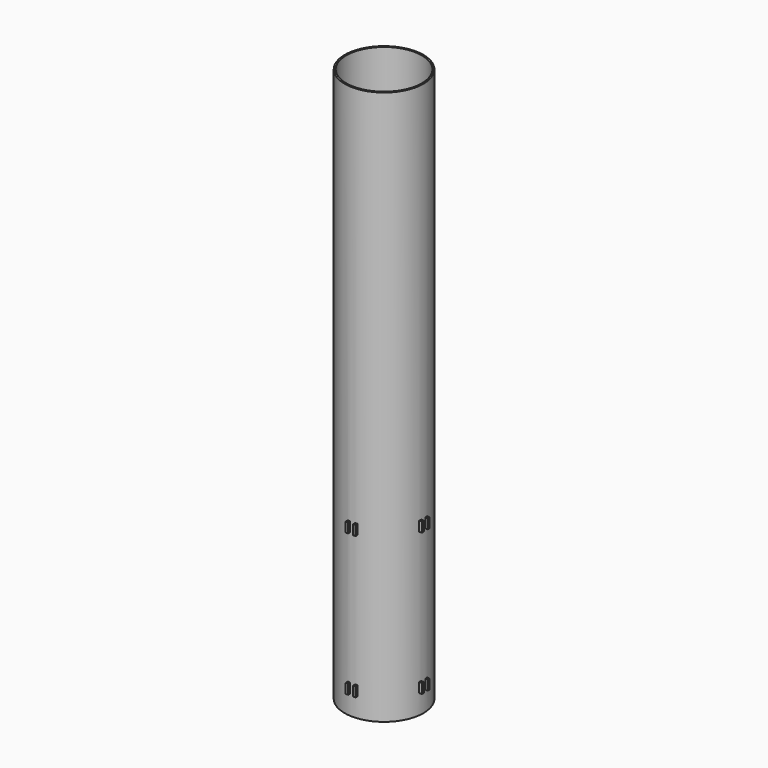
from build123d import *

# Parameters (mm, degrees)
F0_R       = 51
F0_R_2     = 49
F1_DEPTH   = 718.34502
F5_DEPTH   = 3.175
F7_W       = 3.175
F7_H       = 12.7
F8_DEPTH   = 3.175
F10_W      = 3.175
F10_H      = 12.7
F11_DEPTH  = 3.175
F13_W      = 3.175
F13_H      = 12.7
F14_DEPTH  = 3.175
F15_DEPTH  = 2.54
F8_FACE_W  = 3.175
F8_FACE_H  = 12.7
F16_DEPTH  = 2.54
F11_FACE_W = 3.175
F11_FACE_H = 12.7
F17_DEPTH  = 2.54
F14_FACE_W = 3.175
F14_FACE_H = 12.7
F18_DEPTH  = 2.54


with BuildPart() as f1:
    # F0 (on Top) → F1 (new body)
    with BuildSketch(Plane.XY):
        Circle(F0_R)
        Circle(F0_R_2, mode=Mode.SUBTRACT)
    extrude(amount=F1_DEPTH)



with BuildPart() as f5:
    # F4 (on line) → F5 (new body)
    with BuildSketch(Plane.XZ.offset(51)):
        Polygon((-3.175, 209.55), (-3.175, 222.25), (-6.3499914317, 222.2573762128), (-6.3499914317, 209.5573762128), align=None)
    extrude(amount=F5_DEPTH)


with BuildPart() as f5b:
    # F4 (on line) → F5, piece 2 (new body)
    with BuildSketch(Plane.XZ.offset(51)):
        Polygon((6.3499914317, 222.2573762128), (3.175, 222.25), (3.175, 209.55), (6.3499914317, 209.5573762128), align=None)
    extrude(amount=F5_DEPTH)


with BuildPart() as f5c:
    # F4 (on line) → F5, piece 3 (new body)
    with BuildSketch(Plane.XZ.offset(51)):
        Polygon((3.175, 38.1), (3.175, 25.4), (6.3499914317, 25.3926237872), (6.3499914317, 38.0926237872), align=None)
    extrude(amount=F5_DEPTH)


with BuildPart() as f5d:
    # F4 (on line) → F5, piece 4 (new body)
    with BuildSketch(Plane.XZ.offset(51)):
        Polygon((-6.3499914317, 25.3926237872), (-3.175, 25.4), (-3.175, 38.1), (-6.3499914317, 38.0926237872), align=None)
    extrude(amount=F5_DEPTH)


with BuildPart() as f8:
    # F7 (on line) → F8 (new body)
    with BuildSketch(Plane.YZ.offset(51)):
        with Locations((-4.7625, 215.9)):
            Rectangle(F7_W, F7_H)
    extrude(amount=F8_DEPTH)


with BuildPart() as f8b:
    # F7 (on line) → F8, piece 2 (new body)
    with BuildSketch(Plane.YZ.offset(51)):
        with Locations((4.7625, 215.9)):
            Rectangle(F7_W, F7_H)
    extrude(amount=F8_DEPTH)


with BuildPart() as f8c:
    # F7 (on line) → F8, piece 3 (new body)
    with BuildSketch(Plane.YZ.offset(51)):
        with Locations((4.7625, 31.75)):
            Rectangle(F7_W, F7_H)
    extrude(amount=F8_DEPTH)


with BuildPart() as f8d:
    # F7 (on line) → F8, piece 4 (new body)
    with BuildSketch(Plane.YZ.offset(51)):
        with Locations((-4.7625, 31.75)):
            Rectangle(F7_W, F7_H)
    extrude(amount=F8_DEPTH)


with BuildPart() as f11:
    # F10 (on line) → F11 (new body)
    with BuildSketch(Plane.XZ.offset(-51)):
        with Locations((-4.7625, 215.9)):
            Rectangle(F10_W, F10_H)
    extrude(amount=-F11_DEPTH)


with BuildPart() as f11b:
    # F10 (on line) → F11, piece 2 (new body)
    with BuildSketch(Plane.XZ.offset(-51)):
        with Locations((4.7625, 215.9)):
            Rectangle(F10_W, F10_H)
    extrude(amount=-F11_DEPTH)


with BuildPart() as f11c:
    # F10 (on line) → F11, piece 3 (new body)
    with BuildSketch(Plane.XZ.offset(-51)):
        with Locations((-4.7625, 31.75)):
            Rectangle(F10_W, F10_H)
    extrude(amount=-F11_DEPTH)


with BuildPart() as f11d:
    # F10 (on line) → F11, piece 4 (new body)
    with BuildSketch(Plane.XZ.offset(-51)):
        with Locations((4.7625, 31.75)):
            Rectangle(F10_W, F10_H)
    extrude(amount=-F11_DEPTH)


with BuildPart() as f14:
    # F13 (on line) → F14 (new body)
    with BuildSketch(Plane.YZ.offset(-51)):
        with Locations((-4.7625, 215.9)):
            Rectangle(F13_W, F13_H)
    extrude(amount=-F14_DEPTH)


with BuildPart() as f14b:
    # F13 (on line) → F14, piece 2 (new body)
    with BuildSketch(Plane.YZ.offset(-51)):
        with Locations((4.7625, 215.9)):
            Rectangle(F13_W, F13_H)
    extrude(amount=-F14_DEPTH)


with BuildPart() as f14c:
    # F13 (on line) → F14, piece 3 (new body)
    with BuildSketch(Plane.YZ.offset(-51)):
        with Locations((-4.7625, 31.75)):
            Rectangle(F13_W, F13_H)
    extrude(amount=-F14_DEPTH)


with BuildPart() as f14d:
    # F13 (on line) → F14, piece 4 (new body)
    with BuildSketch(Plane.YZ.offset(-51)):
        with Locations((4.7625, 31.75)):
            Rectangle(F13_W, F13_H)
    extrude(amount=-F14_DEPTH)


with BuildPart() as f1_1:
    add(f1.part)

    add(f5.part)  # F15 merges F5

    add(f5b.part)  # F15 merges F5b

    add(f5c.part)  # F15 merges F5c

    add(f5d.part)  # F15 merges F5d
    # F5_face (on face) → F15 (join)
    with BuildSketch(Plane(origin=(4.7624957159, -51, 31.7463118936), x_dir=(1, 0, 0), z_dir=(0, 1, 0))):
        Polygon((-1.5874957159, -6.3536881064), (1.5874957159, -6.3463118936), (1.5874957159, 6.3536881064), (-1.5874957159, 6.3463118936), align=None)
        Polygon((-11.1124871476, 6.3536881064), (-11.1124871476, -6.3463118936), (-7.9374957159, -6.3536881064), (-7.9374957159, 6.3463118936), align=None)
        Polygon((-1.5874957159, -190.5036881064), (1.5874957159, -190.5110643193), (1.5874957159, -177.8110643193), (-1.5874957159, -177.8036881064), align=None)
        Polygon((-7.9374957159, -190.5036881064), (-7.9374957159, -177.8036881064), (-11.1124871476, -177.8110643193), (-11.1124871476, -190.5110643193), align=None)
    extrude(amount=F15_DEPTH)


    add(f8.part)  # F16 merges F8

    add(f8b.part)  # F16 merges F8b

    add(f8c.part)  # F16 merges F8c

    add(f8d.part)  # F16 merges F8d
    # F8_face (on face) → F16 (join)
    with BuildSketch(Plane(origin=(51, 4.7625, 215.9), x_dir=(0, 1, 0), z_dir=(-1, 0, 0))):
        Rectangle(F8_FACE_W, F8_FACE_H)
        with Locations((-9.525, 0)):
            Rectangle(F8_FACE_W, F8_FACE_H)
        with Locations((-9.525, 184.15)):
            Rectangle(F8_FACE_W, F8_FACE_H)
        with Locations((0, 184.15)):
            Rectangle(F8_FACE_W, F8_FACE_H)
    extrude(amount=F16_DEPTH)


    add(f11.part)  # F17 merges F11

    add(f11b.part)  # F17 merges F11b

    add(f11c.part)  # F17 merges F11c

    add(f11d.part)  # F17 merges F11d
    # F11_face (on face) → F17 (join)
    with BuildSketch(Plane(origin=(4.7625, 51, 215.9), x_dir=(1, 0, 0), z_dir=(0, -1, 0))):
        Rectangle(F11_FACE_W, F11_FACE_H)
        with Locations((-9.525, 0)):
            Rectangle(F11_FACE_W, F11_FACE_H)
        with Locations((-9.525, -184.15)):
            Rectangle(F11_FACE_W, F11_FACE_H)
        with Locations((0, -184.15)):
            Rectangle(F11_FACE_W, F11_FACE_H)
    extrude(amount=F17_DEPTH)


    add(f14.part)  # F18 merges F14

    add(f14b.part)  # F18 merges F14b

    add(f14c.part)  # F18 merges F14c

    add(f14d.part)  # F18 merges F14d
    # F14_face (on face) → F18 (join)
    with BuildSketch(Plane(origin=(-51, -4.7625, 215.9), x_dir=(0, 1, 0), z_dir=(1, 0, 0))):
        Rectangle(F14_FACE_W, F14_FACE_H)
        with Locations((9.525, 0)):
            Rectangle(F14_FACE_W, F14_FACE_H)
        with Locations((0, -184.15)):
            Rectangle(F14_FACE_W, F14_FACE_H)
        with Locations((9.525, -184.15)):
            Rectangle(F14_FACE_W, F14_FACE_H)
    extrude(amount=F18_DEPTH)


solid = f1_1.part
